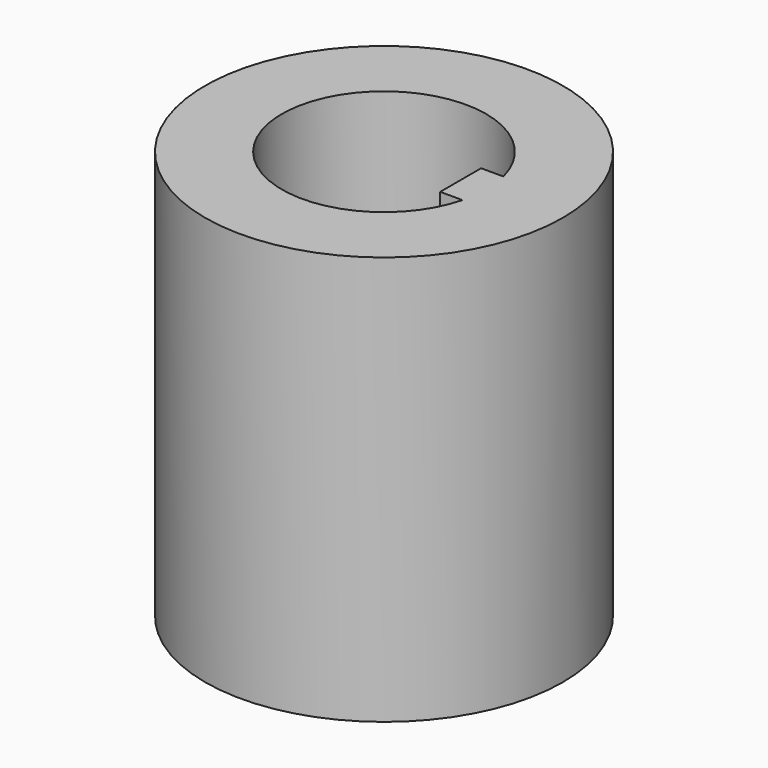
from build123d import *

# Parameters (mm, degrees)
F0_R     = 11.1125
F1_DEPTH = 25.4


with BuildPart() as f1:
    # F0 (on Top) → F1 (new body)
    with BuildSketch(Plane.XY):
        Circle(F0_R)
        with BuildLine():
            ThreePointArc((6.1483610621, -1.5875), (-6.35, 0), (6.1483610621, 1.5875))
            Line((6.1483610621, 1.5875), (7.9375, 1.5875))
            Line((7.9375, 1.5875), (7.9375, -1.5875))
            Line((7.9375, -1.5875), (6.1483610621, -1.5875))
        make_face(mode=Mode.SUBTRACT)
        with BuildLine():
            ThreePointArc((6.1483610621, 1.5875), (6.2993885713, 0.8001272573), (6.35, 0))
            ThreePointArc((6.35, 0), (6.2993885713, -0.8001272573), (6.1483610621, -1.5875))
            Line((6.1483610621, -1.5875), (7.9375, -1.5875))
            Line((7.9375, -1.5875), (7.9375, 1.5875))
            Line((7.9375, 1.5875), (6.1483610621, 1.5875))
        make_face()
        with BuildLine():
            ThreePointArc((6.1483610621, -1.5875), (6.2993885713, -0.8001272573), (6.35, 0))
            ThreePointArc((6.35, 0), (6.2993885713, 0.8001272573), (6.1483610621, 1.5875))
            Line((6.1483610621, 1.5875), (4.7625, 1.5875))
            Line((4.7625, 1.5875), (4.7625, -1.5875))
            Line((4.7625, -1.5875), (6.1483610621, -1.5875))
        make_face()
    extrude(amount=F1_DEPTH)


solid = f1.part
